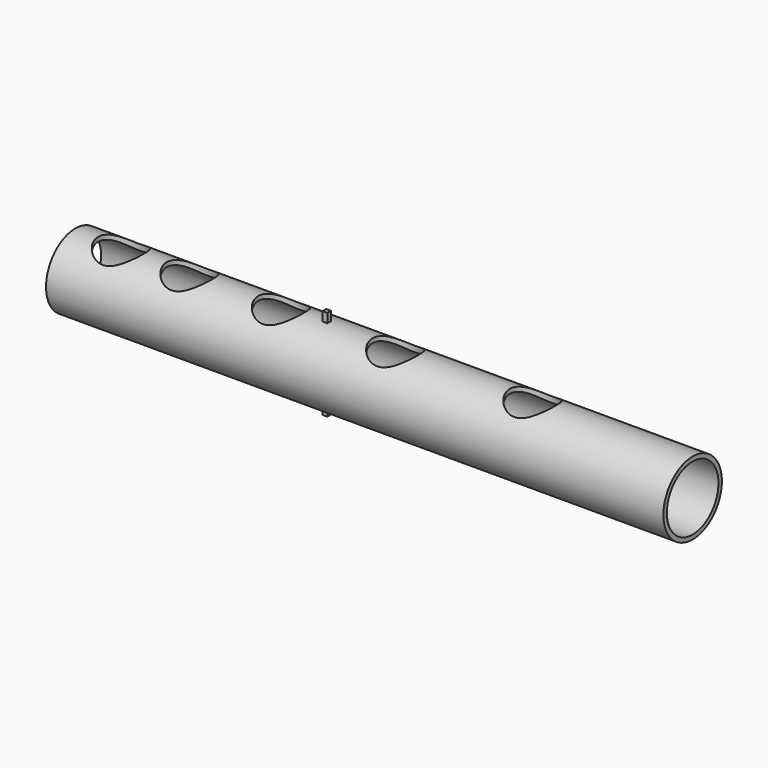
from build123d import *

# Parameters (mm, degrees)
F0_R     = 80
F0_R_2   = 70.5
F1_DEPTH = 1350
F3_DEPTH = 200
F5_DEPTH = 100


with BuildPart() as f1:
    # F0 (on Right) → F1 (new body)
    with BuildSketch(Plane.YZ):
        Circle(F0_R)
        Circle(F0_R_2, mode=Mode.SUBTRACT)
    extrude(amount=F1_DEPTH)

    # F2 (on Top) → F3 (cut)
    with BuildSketch(Plane.XY):
        with BuildLine():
            Line((150, 0), (100, 0))
            Line((100, 0), (50, 0))
            ThreePointArc((50, 0), (100, -50), (150, 0))
        make_face()
        with BuildLine():
            Line((50, 0), (100, 0))
            Line((100, 0), (150, 0))
            ThreePointArc((150, 0), (100, 50), (50, 0))
        make_face()
        with BuildLine():
            ThreePointArc((300, 0), (250, 50), (200, 0))
            Line((200, 0), (250, 0))
            Line((250, 0), (300, 0))
        make_face()
        with BuildLine():
            Line((250, 0), (200, 0))
            ThreePointArc((200, 0), (250, -50), (300, 0))
            Line((300, 0), (250, 0))
        make_face()
        with BuildLine():
            ThreePointArc((500, 0), (450, 50), (400, 0))
            Line((400, 0), (450, 0))
            Line((450, 0), (500, 0))
        make_face()
        with BuildLine():
            Line((450, 0), (400, 0))
            ThreePointArc((400, 0), (450, -50), (500, 0))
            Line((500, 0), (450, 0))
        make_face()
        with BuildLine():
            ThreePointArc((750, 0), (700, 50), (650, 0))
            Line((650, 0), (700, 0))
            Line((700, 0), (750, 0))
        make_face()
        with BuildLine():
            Line((700, 0), (650, 0))
            ThreePointArc((650, 0), (700, -50), (750, 0))
            Line((750, 0), (700, 0))
        make_face()
        with BuildLine():
            ThreePointArc((1050, 0), (1000, 50), (950, 0))
            Line((950, 0), (1000, 0))
            Line((1000, 0), (1050, 0))
        make_face()
        with BuildLine():
            Line((1000, 0), (950, 0))
            ThreePointArc((950, 0), (1000, -50), (1050, 0))
            Line((1050, 0), (1000, 0))
        make_face()
    extrude(amount=F3_DEPTH, mode=Mode.SUBTRACT)

    # F4 (on Top) → F5 (join, symmetric)
    with BuildSketch(Plane.XY):
        Polygon((545, -5), (555, -5), (555, 5), (545, 5), (545, 0), align=None)
    extrude(amount=F5_DEPTH, both=True)


solid = f1.part
